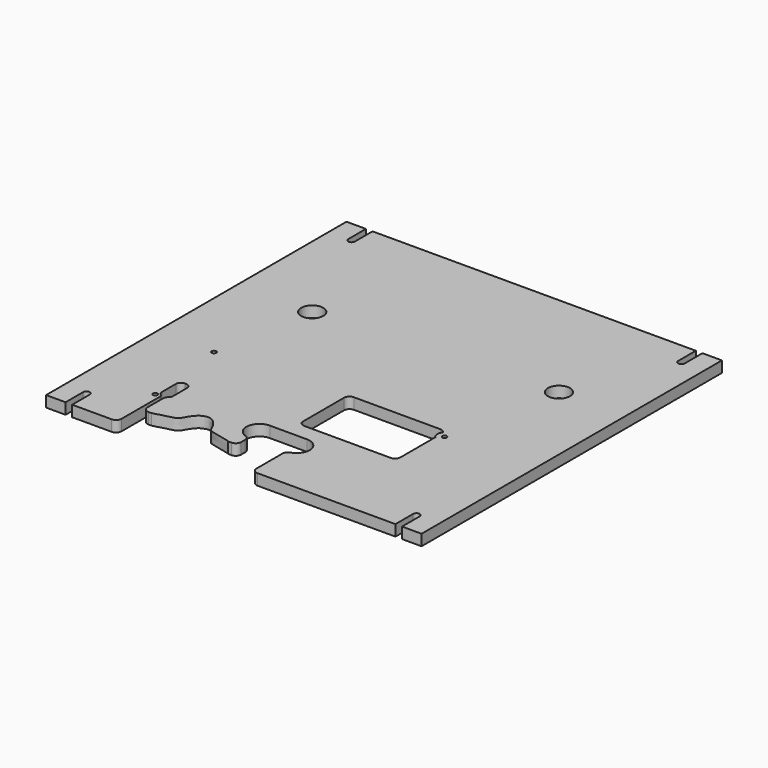
from build123d import *

# Parameters (mm, degrees)
F0_R     = 2
F0_R_2   = 10
F1_DEPTH = 10


with BuildPart() as f1:
    # F0 (on Top) → F1 (new body)
    with BuildSketch(Plane.XY):
        with BuildLine():
            ThreePointArc((59.0919412169, 5.8556343452), (50.9526831397, 18.8804236674), (62.6024537054, 28.8891950556))
            Line((62.6024537054, 28.8891950556), (96.3418013123, 28.8891950556))
            ThreePointArc((96.3418013123, 28.8891950556), (107.991571878, 18.8804236674), (99.8523138008, 5.8556343452))
            ThreePointArc((99.8523138008, 5.8556343452), (97.3139335415, 4.0451239333), (96.3418013123, 1.0826450353))
            Line((96.3418013123, 1.0826450353), (96.3418013123, -3.4423905863))
            Line((96.3418013123, -3.4423905863), (96.3418013123, -28.4423905863))
            ThreePointArc((96.3418013123, -28.4423905863), (97.8062674064, -31.9779244922), (101.3418013123, -33.4423905863))
            Line((101.3418013123, -33.4423905863), (226.2431738165, -33.4423905863))
            Line((226.2431738165, -33.4423905863), (226.2431738165, -13.4423905863))
            ThreePointArc((226.2431738165, -13.4423905863), (229.2431738165, -10.4423905863), (232.2431738165, -13.4423905863))
            Line((232.2431738165, -13.4423905863), (232.2431738165, -33.4423905863))
            Line((232.2431738165, -33.4423905863), (249.8831738165, -33.4423905863))
            Line((249.8831738165, -33.4423905863), (249.8831738165, 306.5576094137))
            Line((249.8831738165, 306.5576094137), (232.2431738165, 306.5576094137))
            Line((232.2431738165, 306.5576094137), (232.2431738165, 286.5576094137))
            ThreePointArc((232.2431738165, 286.5576094137), (229.2431738165, 283.5576094137), (226.2431738165, 286.5576094137))
            Line((226.2431738165, 286.5576094137), (226.2431738165, 306.5576094137))
            Line((226.2431738165, 306.5576094137), (-66.4768261835, 306.5576094137))
            Line((-66.4768261835, 306.5576094137), (-66.4768261835, 286.5576094137))
            ThreePointArc((-66.4768261835, 286.5576094137), (-69.4768261835, 283.5576094137), (-72.4768261835, 286.5576094137))
            Line((-72.4768261835, 286.5576094137), (-72.4768261835, 306.5576094137))
            Line((-72.4768261835, 306.5576094137), (-90.1168261835, 306.5576094137))
            Line((-90.1168261835, 306.5576094137), (-90.1168261835, -33.4423905863))
            Line((-90.1168261835, -33.4423905863), (-72.4768261835, -33.4423905863))
            Line((-72.4768261835, -33.4423905863), (-72.4768261835, -13.4423905863))
            ThreePointArc((-72.4768261835, -13.4423905863), (-69.4768261835, -10.4423905863), (-66.4768261835, -13.4423905863))
            Line((-66.4768261835, -13.4423905863), (-66.4768261835, -33.4423905863))
            Line((-66.4768261835, -33.4423905863), (-30.7376475201, -33.4423905863))
            ThreePointArc((-30.7376475201, -33.4423905863), (-27.2021136142, -31.9779244922), (-25.7376475201, -28.4423905863))
            Line((-25.7376475201, -28.4423905863), (-25.7376475201, -3.4423905863))
            Line((-25.7376475201, -3.4423905863), (-25.7376475201, 14.191206688))
            ThreePointArc((-25.7376475201, 14.191206688), (-26.2085251586, 16.3094726378), (-27.5324677739, 18.0287609605))
            ThreePointArc((-27.5324677739, 18.0287609605), (-28.6705546596, 19.4817524546), (-29.1154945201, 21.2729683997))
            Line((-29.1154945201, 21.2729683997), (-29.1154945201, 37.5007453997))
            ThreePointArc((-29.1154945201, 37.5007453997), (-27.7723228668, 40.5471780201), (-24.6616755201, 41.7340793997))
            Line((-24.6616755201, 41.7340793997), (-23.4746474021, 41.7340793997))
            ThreePointArc((-23.4746474021, 41.7340793997), (-20.3442550444, 40.5612593781), (-18.9995925201, 37.5007453997))
            Line((-18.9995925201, 37.5007453997), (-18.9995925201, 21.2729683997))
            ThreePointArc((-18.9995925201, 21.2729683997), (-19.4445332952, 19.4817460524), (-20.5826230269, 18.0287486149))
            ThreePointArc((-20.5826230269, 18.0287486149), (-21.9065629195, 16.309461214), (-22.3774395201, 14.1911974832))
            Line((-22.3774395201, 14.1911974832), (-22.3774395201, -3.4423905863))
            ThreePointArc((-22.3774395201, -3.4423905863), (-20.9129734261, -6.9779244922), (-17.3774395201, -8.4423905863))
            Line((-17.3774395201, -8.4423905863), (-14.8488045963, -8.4423905863))
            add(Edge.make_bspline(
                [(-14.8488045963, -8.4423905863), (-13.8667230742, -8.0862149232), (-11.0675263436, -7.7368565701), (-9.5535565702, -6.9407787949), (-7.4752239657, -6.5093979511), (-6.0404658852, -6.1311557916), (-2.2864787406, -5.2030128278), (1.3475701923, -4.1847297196), (3.5611082397, -3.6822645324), (5.4819881536, -2.2869521331), (6.9236147383, -0.2928338043), (8.0909212332, 2.1536809326), (8.8018252555, 3.1130183139), (9.9066433173, 5.0149117757), (13.4740067588, 9.5337311578), (16.6201320308, 10.8141732124), (20.2607813027, 12.3757075827), (24.1416225167, 11.0663557699), (26.5751124317, 9.5057386468), (28.5212647481, 7.4945031555), (30.605514445, 4.8352932594), (31.5134198263, 3.0744433993), (32.6181776868, 1.1006609746), (33.5937461444, -1.0781289854), (34.6061736564, -3.5356368183), (40.2319928309, -4.632963348), (44.5783336596, -5.860680116), (49.0997891973, -6.6293952633), (53.6165002005, -7.7718986182), (54.4082808854, -8.2668507233), (54.6180656818, -8.4423905863)],
                knots=[0, 0, 0, 0, 0.0406361494, 0.0690843533, 0.0982832849, 0.1240792745, 0.1650586975, 0.2064474949, 0.237602636, 0.2688839918, 0.3023509551, 0.3363941823, 0.3586454287, 0.3892430987, 0.4390503332, 0.478234315, 0.5186842811, 0.5600640859, 0.5954673894, 0.6306059239, 0.6688365072, 0.6984296576, 0.7295419634, 0.7618620205, 0.7940667479, 0.8425634492, 0.8880772951, 0.9338149024, 0.9784648643, 1, 1, 1, 1], degree=3))
            Line((54.6180656818, -8.4423905863), (57.6024537054, -8.4423905863))
            ThreePointArc((57.6024537054, -8.4423905863), (61.1379876113, -6.9779244922), (62.6024537054, -3.4423905863))
            Line((62.6024537054, -3.4423905863), (62.6024537054, 1.0826450353))
            ThreePointArc((62.6024537054, 1.0826450353), (61.6303214762, 4.0451239333), (59.0919412169, 5.8556343452))
        make_face()
        with Locations((-30.5828261835, 15.7193741869)):
            Circle(F0_R, mode=Mode.SUBTRACT)
        with Locations((-38.5828261835, 92.2193741869)):
            Circle(F0_R, mode=Mode.SUBTRACT)
        with BuildLine():
            ThreePointArc((76.9742517439, 94.9034886555), (78.438717838, 98.4390225614), (81.9742517439, 99.9034886555))
            Line((81.9742517439, 99.9034886555), (160.1593125132, 99.9034886555))
            ThreePointArc((160.1593125132, 99.9034886555), (162.8768793148, 99.1004912382), (164.7215664672, 96.949420927))
            ThreePointArc((164.7215664672, 96.949420927), (163.2025267349, 92.3954086529), (165.1593125132, 88.0116318659))
            Line((165.1593125132, 88.0116318659), (165.1593125132, 48.6874424414))
            ThreePointArc((165.1593125132, 48.6874424414), (163.6948464191, 45.1519085355), (160.1593125132, 43.6874424414))
            Line((160.1593125132, 43.6874424414), (81.9742517439, 43.6874424414))
            ThreePointArc((81.9742517439, 43.6874424414), (78.438717838, 45.1519085355), (76.9742517439, 48.6874424414))
            Line((76.9742517439, 48.6874424414), (76.9742517439, 94.9034886555))
        make_face(mode=Mode.SUBTRACT)
        with Locations((169.8171738165, 92.7193741869)):
            Circle(F0_R, mode=Mode.SUBTRACT)
        with Locations((-22.7316567036, 183.5914050536)):
            Circle(F0_R_2, mode=Mode.SUBTRACT)
        with Locations((190.2683432964, 196.5914050536)):
            Circle(F0_R_2, mode=Mode.SUBTRACT)
    extrude(amount=F1_DEPTH)


solid = f1.part
